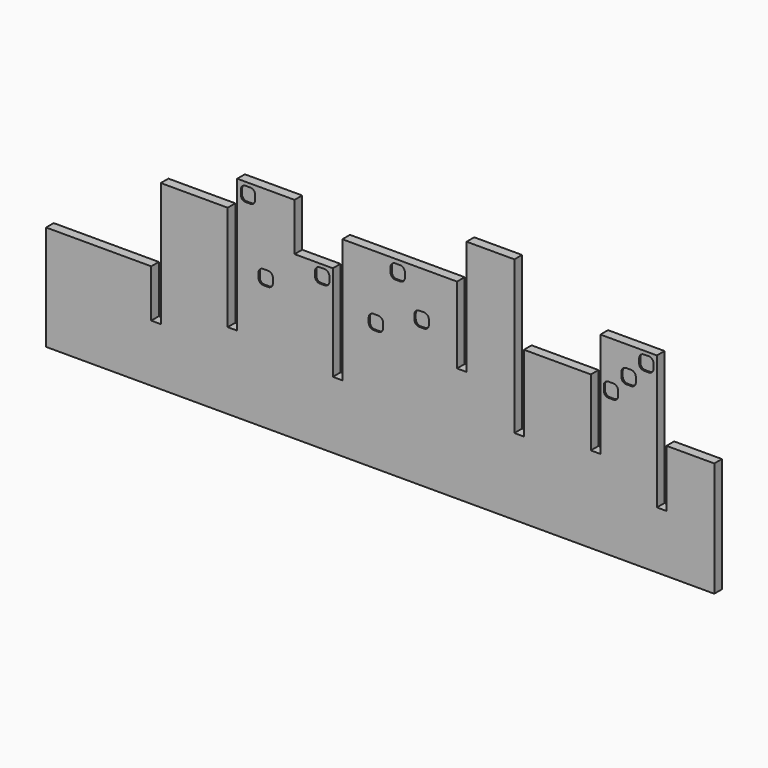
from build123d import *

# Parameters (mm, degrees)
F1_DEPTH = 6.35
F2_DEPTH = 1.016


with BuildPart() as f1:
    # F0 (on Front) → F1 (new body)
    with BuildSketch(Plane.XZ):
        Polygon((3.4657023708, 19.6624366212), (3.4657023708, 57.2062912531), (-34.1008976292, 57.2062912531), (-34.1008976292, 19.6624366212), (-34.1008976292, -12.6437214131), (-40.4508976292, -12.6437214131), (-40.4508976292, 31.8062785869), (-84.9008976292, 31.8062785869), (-84.9008976292, 17.7545957267), (-84.9008976292, -18.9937214131), (-91.2508976292, -18.9937214131), (-91.2508976292, 82.6062785869), (-123.0008976292, 82.6062785869), (-123.0008976292, 6.4062785869), (-129.3508976292, 6.4062785869), (-129.3508976292, 57.2062785869), (-205.5508976292, 57.2062785869), (-205.5508976292, -25.3437214131), (-211.9008976292, -25.3437214131), (-211.9008976292, 38.1562785869), (-237.3008976292, 38.1562785869), (-237.3008976292, 69.9062785869), (-275.4008976292, 69.9062785869), (-275.4008976292, -18.9937214131), (-281.7508976292, -18.9937214131), (-281.7508976292, 50.8562785869), (-326.2008976292, 50.8562785869), (-326.2008976292, -31.6937214131), (-332.5508976292, -31.6937214131), (-332.5508976292, 0.0562785869), (-402.4008976292, 0.0562785869), (-402.4008976292, -69.7937214131), (-332.5508976292, -69.7937214131), (-326.2008976292, -69.7937214131), (-281.7508976292, -69.7937214131), (-275.4008976292, -69.7937214131), (-237.3008976292, -69.7937214131), (-211.9008976292, -69.7937214131), (-205.5508976292, -69.7937214131), (-129.3508976292, -69.7937214131), (-123.0008976292, -69.7937214131), (-91.2508976292, -69.7937214131), (-84.9008976292, -69.7937214131), (-40.4508976292, -69.7937214131), (-34.1008976292, -69.7937214131), (3.4657023708, -69.7937214131), (9.8157023708, -69.7937214131), (41.5657023708, -69.7937214131), (41.5657023708, 6.4062785869), (9.8157023708, 6.4062785869), (9.8157023708, -31.6937214131), (3.4657023708, -31.6937214131), (3.4657023708, 19.651035132), align=None)
        with BuildLine():
            ThreePointArc((-258.0625617027, 13.2079981267), (-260.307625733, 14.1379340965), (-261.2375617027, 16.3829981267))
            Line((-261.2375617027, 16.3829981267), (-261.2375617027, 19.5579981267))
            ThreePointArc((-261.2375617027, 19.5579981267), (-260.307625733, 21.803062157), (-258.0625617027, 22.7329981267))
            Line((-258.0625617027, 22.7329981267), (-254.8875617027, 22.7329981267))
            ThreePointArc((-254.8875617027, 22.7329981267), (-252.6424976725, 21.803062157), (-251.7125617027, 19.5579981267))
            Line((-251.7125617027, 19.5579981267), (-251.7125617027, 16.3829981267))
            ThreePointArc((-251.7125617027, 16.3829981267), (-252.6424976725, 14.1379340965), (-254.8875617027, 13.2079981267))
            Line((-254.8875617027, 13.2079981267), (-258.0625617027, 13.2079981267))
        make_face(mode=Mode.SUBTRACT)
        with BuildLine():
            ThreePointArc((-188.0249530077, 17.1449978754), (-187.095017038, 19.3900619057), (-184.8499530077, 20.3199978754))
            Line((-184.8499530077, 20.3199978754), (-181.6749530077, 20.3199978754))
            ThreePointArc((-181.6749530077, 20.3199978754), (-179.4298889774, 19.3900619057), (-178.4999530077, 17.1449978754))
            Line((-178.4999530077, 17.1449978754), (-178.4999530077, 13.9699978754))
            ThreePointArc((-178.4999530077, 13.9699978754), (-179.4298889774, 11.7249338451), (-181.6749530077, 10.7949978754))
            Line((-181.6749530077, 10.7949978754), (-184.8499530077, 10.7949978754))
            ThreePointArc((-184.8499530077, 10.7949978754), (-187.095017038, 11.7249338451), (-188.0249530077, 13.9699978754))
            Line((-188.0249530077, 13.9699978754), (-188.0249530077, 17.1449978754))
        make_face(mode=Mode.SUBTRACT)
        with BuildLine():
            ThreePointArc((-223.6823077685, 32.7475722294), (-222.7523717988, 34.9926362596), (-220.5073077685, 35.9225722294))
            Line((-220.5073077685, 35.9225722294), (-217.3323077685, 35.9225722294))
            ThreePointArc((-217.3323077685, 35.9225722294), (-215.0872437382, 34.9926362596), (-214.1573077685, 32.7475722294))
            Line((-214.1573077685, 32.7475722294), (-214.1573077685, 29.5725722294))
            ThreePointArc((-214.1573077685, 29.5725722294), (-215.0872437382, 27.3275081991), (-217.3323077685, 26.3975722294))
            Line((-217.3323077685, 26.3975722294), (-220.5073077685, 26.3975722294))
            ThreePointArc((-220.5073077685, 26.3975722294), (-222.7523717988, 27.3275081991), (-223.6823077685, 29.5725722294))
            Line((-223.6823077685, 29.5725722294), (-223.6823077685, 32.7475722294))
        make_face(mode=Mode.SUBTRACT)
        with BuildLine():
            ThreePointArc((-269.8326279198, 58.0373540644), (-272.0776919501, 58.9672900342), (-273.0076279198, 61.2123540644))
            Line((-273.0076279198, 61.2123540644), (-273.0076279198, 64.3873540644))
            ThreePointArc((-273.0076279198, 64.3873540644), (-272.0776919501, 66.6324180947), (-269.8326279198, 67.5623540644))
            Line((-269.8326279198, 67.5623540644), (-266.6576279198, 67.5623540644))
            ThreePointArc((-266.6576279198, 67.5623540644), (-264.4125638896, 66.6324180947), (-263.4826279198, 64.3873540644))
            Line((-263.4826279198, 64.3873540644), (-263.4826279198, 61.2123540644))
            ThreePointArc((-263.4826279198, 61.2123540644), (-264.4125638896, 58.9672900342), (-266.6576279198, 58.0373540644))
            Line((-266.6576279198, 58.0373540644), (-269.8326279198, 58.0373540644))
        make_face(mode=Mode.SUBTRACT)
        with BuildLine():
            Line((-148.0764249472, 20.3199978754), (-181.6749530077, 20.3199978754))
            Line((-181.6749530077, 20.3199978754), (-181.6749530077, 22.5551978754))
            Line((-181.6749530077, 22.5551978754), (-154.4264242679, 22.5551978754))
            ThreePointArc((-154.4264242679, 22.5551978754), (-156.6714882982, 23.4851338451), (-157.6014242679, 25.7301978754))
            Line((-157.6014242679, 25.7301978754), (-157.6014242679, 28.9051978754))
            ThreePointArc((-157.6014242679, 28.9051978754), (-156.6714882982, 31.1502619057), (-154.4264242679, 32.0801978754))
            Line((-154.4264242679, 32.0801978754), (-151.2514242679, 32.0801978754))
            ThreePointArc((-151.2514242679, 32.0801978754), (-149.0063602376, 31.1502619057), (-148.0764242679, 28.9051978754))
            Line((-148.0764242679, 28.9051978754), (-148.0764242679, 25.7301978754))
            ThreePointArc((-148.0764242679, 25.7301978754), (-149.0063602376, 23.4851338451), (-151.2514242679, 22.5551978754))
            Line((-151.2514242679, 22.5551978754), (-148.0764249472, 22.5551978754))
            Line((-148.0764249472, 22.5551978754), (-148.0764249472, 20.3199978754))
        make_face(mode=Mode.SUBTRACT)
        with BuildLine():
            ThreePointArc((-31.855833599, 28.2575006515), (-30.9258976292, 30.5025646817), (-28.680833599, 31.4325006515))
            Line((-28.680833599, 31.4325006515), (-25.505833599, 31.4325006515))
            ThreePointArc((-25.505833599, 31.4325006515), (-23.2607695687, 30.5025646817), (-22.330833599, 28.2575006515))
            Line((-22.330833599, 28.2575006515), (-22.330833599, 25.0825006515))
            ThreePointArc((-22.330833599, 25.0825006515), (-23.2607695687, 22.8374366212), (-25.505833599, 21.9075006515))
            Line((-25.505833599, 21.9075006515), (-28.680833599, 21.9075006515))
            ThreePointArc((-28.680833599, 21.9075006515), (-30.9258976292, 22.8374366212), (-31.855833599, 25.0825006515))
            Line((-31.855833599, 25.0825006515), (-31.855833599, 28.2575006515))
        make_face(mode=Mode.SUBTRACT)
        with BuildLine():
            ThreePointArc((-20.0857695687, 40.0275646817), (-19.155833599, 42.272628712), (-16.9107695687, 43.2025646817))
            Line((-16.9107695687, 43.2025646817), (-13.7357695687, 43.2025646817))
            ThreePointArc((-13.7357695687, 43.2025646817), (-11.4907055384, 42.272628712), (-10.5607695687, 40.0275646817))
            Line((-10.5607695687, 40.0275646817), (-10.5607695687, 36.8525646817))
            ThreePointArc((-10.5607695687, 36.8525646817), (-11.4907055384, 34.6075006515), (-13.7357695687, 33.6775646817))
            Line((-13.7357695687, 33.6775646817), (-16.9107695687, 33.6775646817))
            ThreePointArc((-16.9107695687, 33.6775646817), (-19.155833599, 34.6075006515), (-20.0857695687, 36.8525646817))
            Line((-20.0857695687, 36.8525646817), (-20.0857695687, 40.0275646817))
        make_face(mode=Mode.SUBTRACT)
        with BuildLine():
            ThreePointArc((-173.5159547505, 51.3532994753), (-172.5860187808, 53.5983635056), (-170.3409547505, 54.5282994753))
            Line((-170.3409547505, 54.5282994753), (-167.1659547505, 54.5282994753))
            ThreePointArc((-167.1659547505, 54.5282994753), (-164.9208907202, 53.5983635056), (-163.9909547505, 51.3532994753))
            Line((-163.9909547505, 51.3532994753), (-163.9909547505, 48.1782994753))
            ThreePointArc((-163.9909547505, 48.1782994753), (-164.9208907202, 45.933235445), (-167.1659547505, 45.0032994753))
            Line((-167.1659547505, 45.0032994753), (-170.3409547505, 45.0032994753))
            ThreePointArc((-170.3409547505, 45.0032994753), (-172.5860187808, 45.933235445), (-173.5159547505, 48.1782994753))
            Line((-173.5159547505, 48.1782994753), (-173.5159547505, 51.3532994753))
        make_face(mode=Mode.SUBTRACT)
        with BuildLine():
            ThreePointArc((-8.3157055384, 51.797628712), (-7.3857695687, 54.0426927423), (-5.1407055384, 54.972628712))
            Line((-5.1407055384, 54.972628712), (-1.9657055384, 54.972628712))
            ThreePointArc((-1.9657055384, 54.972628712), (0.2793584918, 54.0426927423), (1.2092944616, 51.797628712))
            Line((1.2092944616, 51.797628712), (1.2092944616, 48.622628712))
            ThreePointArc((1.2092944616, 48.622628712), (0.2793584918, 46.3775646817), (-1.9657055384, 45.447628712))
            Line((-1.9657055384, 45.447628712), (-5.1407055384, 45.447628712))
            ThreePointArc((-5.1407055384, 45.447628712), (-7.3857695687, 46.3775646817), (-8.3157055384, 48.622628712))
            Line((-8.3157055384, 48.622628712), (-8.3157055384, 51.797628712))
        make_face(mode=Mode.SUBTRACT)
        with BuildLine():
            Line((-273.0076279198, 64.3873540644), (-273.0076279198, 61.2123540644))
            ThreePointArc((-273.0076279198, 61.2123540644), (-272.0776919501, 58.9672900342), (-269.8326279198, 58.0373540644))
            Line((-269.8326279198, 58.0373540644), (-266.6576279198, 58.0373540644))
            ThreePointArc((-266.6576279198, 58.0373540644), (-264.4125638896, 58.9672900342), (-263.4826279198, 61.2123540644))
            Line((-263.4826279198, 61.2123540644), (-263.4826279198, 64.3873540644))
            ThreePointArc((-263.4826279198, 64.3873540644), (-264.4125638896, 66.6324180947), (-266.6576279198, 67.5623540644))
            Line((-266.6576279198, 67.5623540644), (-269.8326279198, 67.5623540644))
            ThreePointArc((-269.8326279198, 67.5623540644), (-272.0776919501, 66.6324180947), (-273.0076279198, 64.3873540644))
        make_face()
        with BuildLine():
            Line((-181.6749530077, 20.3199978754), (-184.8499530077, 20.3199978754))
            ThreePointArc((-184.8499530077, 20.3199978754), (-187.095017038, 19.3900619057), (-188.0249530077, 17.1449978754))
            Line((-188.0249530077, 17.1449978754), (-188.0249530077, 13.9699978754))
            ThreePointArc((-188.0249530077, 13.9699978754), (-187.095017038, 11.7249338451), (-184.8499530077, 10.7949978754))
            Line((-184.8499530077, 10.7949978754), (-181.6749530077, 10.7949978754))
            ThreePointArc((-181.6749530077, 10.7949978754), (-179.4298889774, 11.7249338451), (-178.4999530077, 13.9699978754))
            Line((-178.4999530077, 13.9699978754), (-178.4999530077, 17.1449978754))
            ThreePointArc((-178.4999530077, 17.1449978754), (-179.4298889774, 19.3900619057), (-181.6749530077, 20.3199978754))
        make_face()
        with BuildLine():
            Line((-25.505833599, 31.4325006515), (-28.680833599, 31.4325006515))
            ThreePointArc((-28.680833599, 31.4325006515), (-30.9258976292, 30.5025646817), (-31.855833599, 28.2575006515))
            Line((-31.855833599, 28.2575006515), (-31.855833599, 25.0825006515))
            ThreePointArc((-31.855833599, 25.0825006515), (-30.9258976292, 22.8374366212), (-28.680833599, 21.9075006515))
            Line((-28.680833599, 21.9075006515), (-25.505833599, 21.9075006515))
            ThreePointArc((-25.505833599, 21.9075006515), (-23.2607695687, 22.8374366212), (-22.330833599, 25.0825006515))
            Line((-22.330833599, 25.0825006515), (-22.330833599, 28.2575006515))
            ThreePointArc((-22.330833599, 28.2575006515), (-23.2607695687, 30.5025646817), (-25.505833599, 31.4325006515))
        make_face()
        with BuildLine():
            ThreePointArc((-157.6014242679, 25.7301978754), (-156.6714882982, 23.4851338451), (-154.4264242679, 22.5551978754))
            Line((-154.4264242679, 22.5551978754), (-151.2514242679, 22.5551978754))
            ThreePointArc((-151.2514242679, 22.5551978754), (-149.0063602376, 23.4851338451), (-148.0764242679, 25.7301978754))
            Line((-148.0764242679, 25.7301978754), (-148.0764242679, 28.9051978754))
            ThreePointArc((-148.0764242679, 28.9051978754), (-149.0063602376, 31.1502619057), (-151.2514242679, 32.0801978754))
            Line((-151.2514242679, 32.0801978754), (-154.4264242679, 32.0801978754))
            ThreePointArc((-154.4264242679, 32.0801978754), (-156.6714882982, 31.1502619057), (-157.6014242679, 28.9051978754))
            Line((-157.6014242679, 28.9051978754), (-157.6014242679, 25.7301978754))
        make_face()
        with BuildLine():
            Line((-13.7357695687, 43.2025646817), (-16.9107695687, 43.2025646817))
            ThreePointArc((-16.9107695687, 43.2025646817), (-19.155833599, 42.272628712), (-20.0857695687, 40.0275646817))
            Line((-20.0857695687, 40.0275646817), (-20.0857695687, 36.8525646817))
            ThreePointArc((-20.0857695687, 36.8525646817), (-19.155833599, 34.6075006515), (-16.9107695687, 33.6775646817))
            Line((-16.9107695687, 33.6775646817), (-13.7357695687, 33.6775646817))
            ThreePointArc((-13.7357695687, 33.6775646817), (-11.4907055384, 34.6075006515), (-10.5607695687, 36.8525646817))
            Line((-10.5607695687, 36.8525646817), (-10.5607695687, 40.0275646817))
            ThreePointArc((-10.5607695687, 40.0275646817), (-11.4907055384, 42.272628712), (-13.7357695687, 43.2025646817))
        make_face()
        with BuildLine():
            Line((-261.2375617027, 19.5579981267), (-261.2375617027, 16.3829981267))
            ThreePointArc((-261.2375617027, 16.3829981267), (-260.307625733, 14.1379340965), (-258.0625617027, 13.2079981267))
            Line((-258.0625617027, 13.2079981267), (-254.8875617027, 13.2079981267))
            ThreePointArc((-254.8875617027, 13.2079981267), (-252.6424976725, 14.1379340965), (-251.7125617027, 16.3829981267))
            Line((-251.7125617027, 16.3829981267), (-251.7125617027, 19.5579981267))
            ThreePointArc((-251.7125617027, 19.5579981267), (-252.6424976725, 21.803062157), (-254.8875617027, 22.7329981267))
            Line((-254.8875617027, 22.7329981267), (-258.0625617027, 22.7329981267))
            ThreePointArc((-258.0625617027, 22.7329981267), (-260.307625733, 21.803062157), (-261.2375617027, 19.5579981267))
        make_face()
        with BuildLine():
            Line((-167.1659547505, 54.5282994753), (-170.3409547505, 54.5282994753))
            ThreePointArc((-170.3409547505, 54.5282994753), (-172.5860187808, 53.5983635056), (-173.5159547505, 51.3532994753))
            Line((-173.5159547505, 51.3532994753), (-173.5159547505, 48.1782994753))
            ThreePointArc((-173.5159547505, 48.1782994753), (-172.5860187808, 45.933235445), (-170.3409547505, 45.0032994753))
            Line((-170.3409547505, 45.0032994753), (-167.1659547505, 45.0032994753))
            ThreePointArc((-167.1659547505, 45.0032994753), (-164.9208907202, 45.933235445), (-163.9909547505, 48.1782994753))
            Line((-163.9909547505, 48.1782994753), (-163.9909547505, 51.3532994753))
            ThreePointArc((-163.9909547505, 51.3532994753), (-164.9208907202, 53.5983635056), (-167.1659547505, 54.5282994753))
        make_face()
        with BuildLine():
            Line((-1.9657055384, 54.972628712), (-5.1407055384, 54.972628712))
            ThreePointArc((-5.1407055384, 54.972628712), (-7.3857695687, 54.0426927423), (-8.3157055384, 51.797628712))
            Line((-8.3157055384, 51.797628712), (-8.3157055384, 48.622628712))
            ThreePointArc((-8.3157055384, 48.622628712), (-7.3857695687, 46.3775646817), (-5.1407055384, 45.447628712))
            Line((-5.1407055384, 45.447628712), (-1.9657055384, 45.447628712))
            ThreePointArc((-1.9657055384, 45.447628712), (0.2793584918, 46.3775646817), (1.2092944616, 48.622628712))
            Line((1.2092944616, 48.622628712), (1.2092944616, 51.797628712))
            ThreePointArc((1.2092944616, 51.797628712), (0.2793584918, 54.0426927423), (-1.9657055384, 54.972628712))
        make_face()
        with BuildLine():
            Line((-217.3323077685, 35.9225722294), (-220.5073077685, 35.9225722294))
            ThreePointArc((-220.5073077685, 35.9225722294), (-222.7523717988, 34.9926362596), (-223.6823077685, 32.7475722294))
            Line((-223.6823077685, 32.7475722294), (-223.6823077685, 29.5725722294))
            ThreePointArc((-223.6823077685, 29.5725722294), (-222.7523717988, 27.3275081991), (-220.5073077685, 26.3975722294))
            Line((-220.5073077685, 26.3975722294), (-217.3323077685, 26.3975722294))
            ThreePointArc((-217.3323077685, 26.3975722294), (-215.0872437382, 27.3275081991), (-214.1573077685, 29.5725722294))
            Line((-214.1573077685, 29.5725722294), (-214.1573077685, 32.7475722294))
            ThreePointArc((-214.1573077685, 32.7475722294), (-215.0872437382, 34.9926362596), (-217.3323077685, 35.9225722294))
        make_face()
        Polygon((-181.6749530077, 22.5551978754), (-181.6749530077, 20.3199978754), (-148.0764249472, 20.3199978754), (-148.0764249472, 22.5551978754), (-151.2514242679, 22.5551978754), (-154.4264242679, 22.5551978754), align=None)
    extrude(amount=-F1_DEPTH)

    # F0 (on Front) → F2 (cut)
    with BuildSketch(Plane.XZ):
        with BuildLine():
            Line((-273.0076279198, 64.3873540644), (-273.0076279198, 61.2123540644))
            ThreePointArc((-273.0076279198, 61.2123540644), (-272.0776919501, 58.9672900342), (-269.8326279198, 58.0373540644))
            Line((-269.8326279198, 58.0373540644), (-266.6576279198, 58.0373540644))
            ThreePointArc((-266.6576279198, 58.0373540644), (-264.4125638896, 58.9672900342), (-263.4826279198, 61.2123540644))
            Line((-263.4826279198, 61.2123540644), (-263.4826279198, 64.3873540644))
            ThreePointArc((-263.4826279198, 64.3873540644), (-264.4125638896, 66.6324180947), (-266.6576279198, 67.5623540644))
            Line((-266.6576279198, 67.5623540644), (-269.8326279198, 67.5623540644))
            ThreePointArc((-269.8326279198, 67.5623540644), (-272.0776919501, 66.6324180947), (-273.0076279198, 64.3873540644))
        make_face()
        with BuildLine():
            Line((-261.2375617027, 19.5579981267), (-261.2375617027, 16.3829981267))
            ThreePointArc((-261.2375617027, 16.3829981267), (-260.307625733, 14.1379340965), (-258.0625617027, 13.2079981267))
            Line((-258.0625617027, 13.2079981267), (-254.8875617027, 13.2079981267))
            ThreePointArc((-254.8875617027, 13.2079981267), (-252.6424976725, 14.1379340965), (-251.7125617027, 16.3829981267))
            Line((-251.7125617027, 16.3829981267), (-251.7125617027, 19.5579981267))
            ThreePointArc((-251.7125617027, 19.5579981267), (-252.6424976725, 21.803062157), (-254.8875617027, 22.7329981267))
            Line((-254.8875617027, 22.7329981267), (-258.0625617027, 22.7329981267))
            ThreePointArc((-258.0625617027, 22.7329981267), (-260.307625733, 21.803062157), (-261.2375617027, 19.5579981267))
        make_face()
        with BuildLine():
            Line((-217.3323077685, 35.9225722294), (-220.5073077685, 35.9225722294))
            ThreePointArc((-220.5073077685, 35.9225722294), (-222.7523717988, 34.9926362596), (-223.6823077685, 32.7475722294))
            Line((-223.6823077685, 32.7475722294), (-223.6823077685, 29.5725722294))
            ThreePointArc((-223.6823077685, 29.5725722294), (-222.7523717988, 27.3275081991), (-220.5073077685, 26.3975722294))
            Line((-220.5073077685, 26.3975722294), (-217.3323077685, 26.3975722294))
            ThreePointArc((-217.3323077685, 26.3975722294), (-215.0872437382, 27.3275081991), (-214.1573077685, 29.5725722294))
            Line((-214.1573077685, 29.5725722294), (-214.1573077685, 32.7475722294))
            ThreePointArc((-214.1573077685, 32.7475722294), (-215.0872437382, 34.9926362596), (-217.3323077685, 35.9225722294))
        make_face()
        with BuildLine():
            Line((-167.1659547505, 54.5282994753), (-170.3409547505, 54.5282994753))
            ThreePointArc((-170.3409547505, 54.5282994753), (-172.5860187808, 53.5983635056), (-173.5159547505, 51.3532994753))
            Line((-173.5159547505, 51.3532994753), (-173.5159547505, 48.1782994753))
            ThreePointArc((-173.5159547505, 48.1782994753), (-172.5860187808, 45.933235445), (-170.3409547505, 45.0032994753))
            Line((-170.3409547505, 45.0032994753), (-167.1659547505, 45.0032994753))
            ThreePointArc((-167.1659547505, 45.0032994753), (-164.9208907202, 45.933235445), (-163.9909547505, 48.1782994753))
            Line((-163.9909547505, 48.1782994753), (-163.9909547505, 51.3532994753))
            ThreePointArc((-163.9909547505, 51.3532994753), (-164.9208907202, 53.5983635056), (-167.1659547505, 54.5282994753))
        make_face()
        with BuildLine():
            Line((-181.6749530077, 20.3199978754), (-184.8499530077, 20.3199978754))
            ThreePointArc((-184.8499530077, 20.3199978754), (-187.095017038, 19.3900619057), (-188.0249530077, 17.1449978754))
            Line((-188.0249530077, 17.1449978754), (-188.0249530077, 13.9699978754))
            ThreePointArc((-188.0249530077, 13.9699978754), (-187.095017038, 11.7249338451), (-184.8499530077, 10.7949978754))
            Line((-184.8499530077, 10.7949978754), (-181.6749530077, 10.7949978754))
            ThreePointArc((-181.6749530077, 10.7949978754), (-179.4298889774, 11.7249338451), (-178.4999530077, 13.9699978754))
            Line((-178.4999530077, 13.9699978754), (-178.4999530077, 17.1449978754))
            ThreePointArc((-178.4999530077, 17.1449978754), (-179.4298889774, 19.3900619057), (-181.6749530077, 20.3199978754))
        make_face()
        with BuildLine():
            ThreePointArc((-157.6014242679, 25.7301978754), (-156.6714882982, 23.4851338451), (-154.4264242679, 22.5551978754))
            Line((-154.4264242679, 22.5551978754), (-151.2514242679, 22.5551978754))
            ThreePointArc((-151.2514242679, 22.5551978754), (-149.0063602376, 23.4851338451), (-148.0764242679, 25.7301978754))
            Line((-148.0764242679, 25.7301978754), (-148.0764242679, 28.9051978754))
            ThreePointArc((-148.0764242679, 28.9051978754), (-149.0063602376, 31.1502619057), (-151.2514242679, 32.0801978754))
            Line((-151.2514242679, 32.0801978754), (-154.4264242679, 32.0801978754))
            ThreePointArc((-154.4264242679, 32.0801978754), (-156.6714882982, 31.1502619057), (-157.6014242679, 28.9051978754))
            Line((-157.6014242679, 28.9051978754), (-157.6014242679, 25.7301978754))
        make_face()
        with BuildLine():
            Line((-25.505833599, 31.4325006515), (-28.680833599, 31.4325006515))
            ThreePointArc((-28.680833599, 31.4325006515), (-30.9258976292, 30.5025646817), (-31.855833599, 28.2575006515))
            Line((-31.855833599, 28.2575006515), (-31.855833599, 25.0825006515))
            ThreePointArc((-31.855833599, 25.0825006515), (-30.9258976292, 22.8374366212), (-28.680833599, 21.9075006515))
            Line((-28.680833599, 21.9075006515), (-25.505833599, 21.9075006515))
            ThreePointArc((-25.505833599, 21.9075006515), (-23.2607695687, 22.8374366212), (-22.330833599, 25.0825006515))
            Line((-22.330833599, 25.0825006515), (-22.330833599, 28.2575006515))
            ThreePointArc((-22.330833599, 28.2575006515), (-23.2607695687, 30.5025646817), (-25.505833599, 31.4325006515))
        make_face()
        with BuildLine():
            Line((-13.7357695687, 43.2025646817), (-16.9107695687, 43.2025646817))
            ThreePointArc((-16.9107695687, 43.2025646817), (-19.155833599, 42.272628712), (-20.0857695687, 40.0275646817))
            Line((-20.0857695687, 40.0275646817), (-20.0857695687, 36.8525646817))
            ThreePointArc((-20.0857695687, 36.8525646817), (-19.155833599, 34.6075006515), (-16.9107695687, 33.6775646817))
            Line((-16.9107695687, 33.6775646817), (-13.7357695687, 33.6775646817))
            ThreePointArc((-13.7357695687, 33.6775646817), (-11.4907055384, 34.6075006515), (-10.5607695687, 36.8525646817))
            Line((-10.5607695687, 36.8525646817), (-10.5607695687, 40.0275646817))
            ThreePointArc((-10.5607695687, 40.0275646817), (-11.4907055384, 42.272628712), (-13.7357695687, 43.2025646817))
        make_face()
        with BuildLine():
            Line((-1.9657055384, 54.972628712), (-5.1407055384, 54.972628712))
            ThreePointArc((-5.1407055384, 54.972628712), (-7.3857695687, 54.0426927423), (-8.3157055384, 51.797628712))
            Line((-8.3157055384, 51.797628712), (-8.3157055384, 48.622628712))
            ThreePointArc((-8.3157055384, 48.622628712), (-7.3857695687, 46.3775646817), (-5.1407055384, 45.447628712))
            Line((-5.1407055384, 45.447628712), (-1.9657055384, 45.447628712))
            ThreePointArc((-1.9657055384, 45.447628712), (0.2793584918, 46.3775646817), (1.2092944616, 48.622628712))
            Line((1.2092944616, 48.622628712), (1.2092944616, 51.797628712))
            ThreePointArc((1.2092944616, 51.797628712), (0.2793584918, 54.0426927423), (-1.9657055384, 54.972628712))
        make_face()
    extrude(amount=-F2_DEPTH, mode=Mode.SUBTRACT)


solid = f1.part
